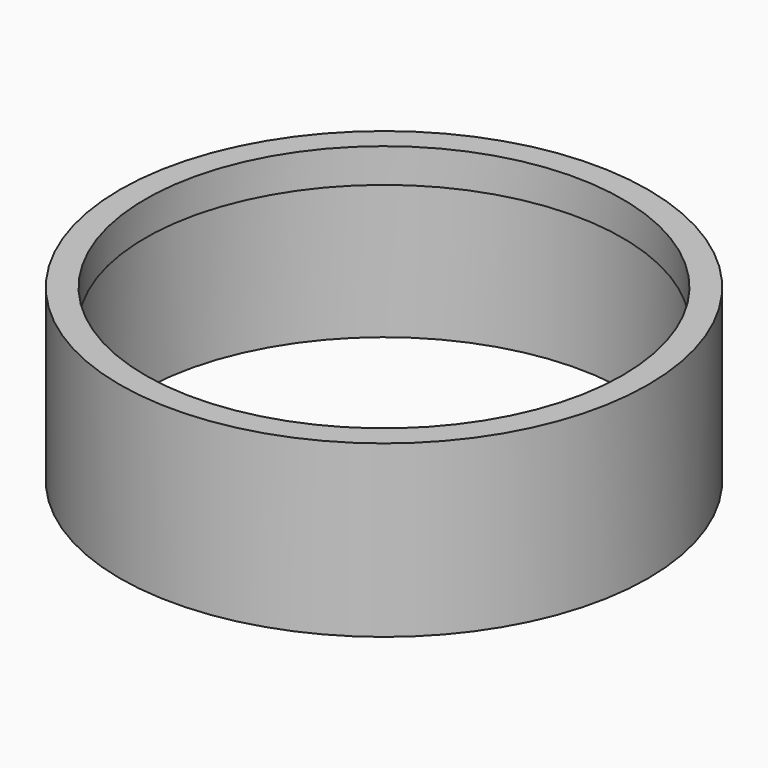
from build123d import *

# Parameters (mm, degrees)
F0_R     = 15.5
F1_DEPTH = 10
F2_R     = 14
F3_DEPTH = 25
F4_R     = 14.25
F5_DEPTH = 8


with BuildPart() as f1:
    # F0 (on Top) → F1 (new body)
    with BuildSketch(Plane.XY):
        Circle(F0_R)
    extrude(amount=F1_DEPTH)

    # F2 (on Top) → F3 (cut)
    with BuildSketch(Plane.XY):
        Circle(F2_R)
    extrude(amount=F3_DEPTH, mode=Mode.SUBTRACT)

    # F4 (on Top) → F5 (cut)
    with BuildSketch(Plane.XY):
        Circle(F4_R)
    extrude(amount=F5_DEPTH, mode=Mode.SUBTRACT)


solid = f1.part
